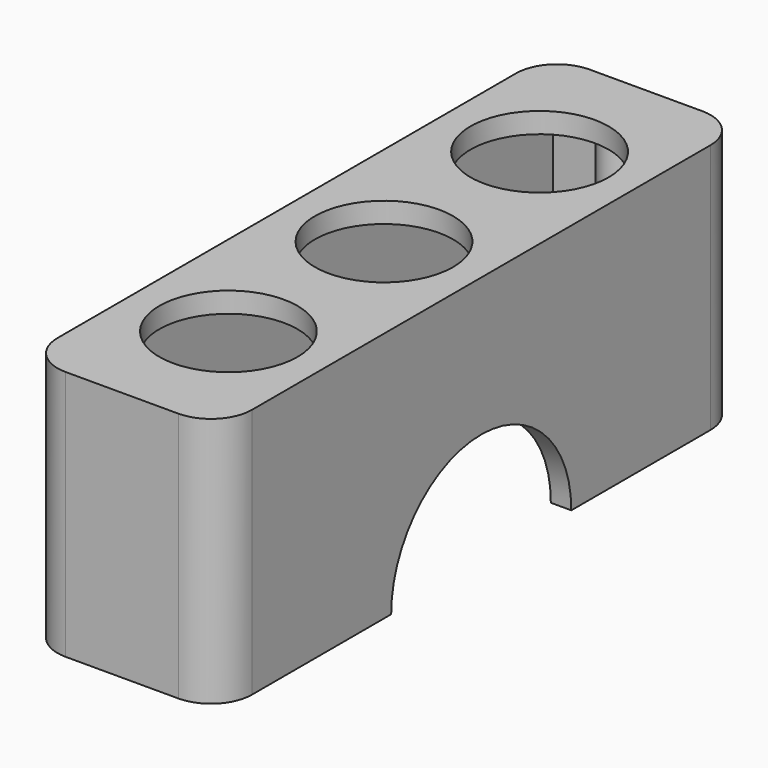
from build123d import *

# Parameters (mm, degrees)
F0_W      = 19
F0_H      = 64
F1_DEPTH  = 24.5
F3_DEPTH  = 25
F4_T      = -2
F5_R      = 4
F6_R      = 6.75
F7_DEPTH  = 25
F8_R      = 2
F8_R_2    = 1.25
F9_DEPTH  = 22.5
F10_R     = 6.75
F11_DEPTH = 25


with BuildPart() as f1:
    # F0 (on Top) → F1 (new body)
    with BuildSketch(Plane.XY):
        with Locations((-9.5, 32)):
            Rectangle(F0_W, F0_H)
    extrude(amount=F1_DEPTH)

    # F2 (on face) → F3 (cut)
    with BuildSketch(Plane.YZ):
        with BuildLine():
            Line((21, 0), (43, 0))
            ThreePointArc((43, 0), (32, 11), (21, 0))
        make_face()
    extrude(amount=-F3_DEPTH, mode=Mode.SUBTRACT)

    # F4
    f4_openings = [f1.faces().sort_by_distance(p)[0] for p in [
        (-9.5, 32, 11),
        (-9.5, 10.5, 0),
        (-9.5, 53.5, 0),
    ]]
    offset(amount=F4_T, openings=f4_openings)

    # F5
    f5_edges = [f1.edges().sort_by_distance(p)[0] for p in [
        (0, 0, 12.25),
        (0, 64, 12.25),
        (-19, 64, 12.25),
        (-19, 0, 12.25),
    ]]
    fillet(f5_edges, radius=F5_R)

    # F6 (on face) → F7 (cut)
    with BuildSketch(Plane.XY.offset(24.5)):
        with Locations((-9.5, 32)):
            Circle(F6_R)
    extrude(amount=-F7_DEPTH, mode=Mode.SUBTRACT)

    # F8 (on face) → F9 (join)
    with BuildSketch(Plane(origin=(0, 0, 22.5), x_dir=(1, 0, 0), z_dir=(0, 0, -1))):
        with Locations((-9.5, -3)):
            Circle(F8_R)
        with Locations((-9.5, -3)):
            Circle(F8_R_2, mode=Mode.SUBTRACT)
        with Locations((-9.5, -61)):
            Circle(F8_R)
        with Locations((-9.5, -61)):
            Circle(F8_R_2, mode=Mode.SUBTRACT)
    extrude(amount=F9_DEPTH)

    # F10 (on face) → F11 (cut)
    with BuildSketch(Plane.XY.offset(24.5)):
        with Locations((-9.5, 51)):
            Circle(F10_R)
        with Locations((-9.5, 13)):
            Circle(F10_R)
    extrude(amount=-F11_DEPTH, mode=Mode.SUBTRACT)


solid = f1.part
